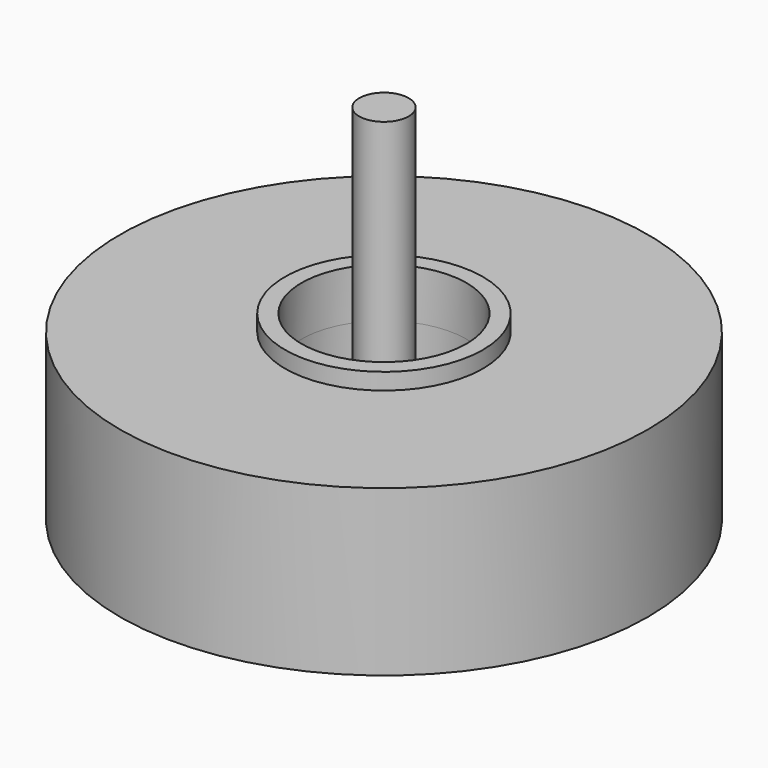
from build123d import *

# Parameters (mm, degrees)
CYLINDER002_R     = 5
CYLINDER002_DEPTH = 12
CYLINDER001_R     = 10
CYLINDER001_DEPTH = 6
CYLINDER_R        = 16
CYLINDER_DEPTH    = 10
CYLINDER005_R     = 1.5
CYLINDER005_DEPTH = 20
CYLINDER004_R     = 5
CYLINDER004_DEPTH = 13
CYLINDER003_R     = 6
CYLINDER003_DEPTH = 3


with BuildPart() as cylinder002:
    # Cylinder002 → Cylinder002 (new body)
    with BuildSketch(Plane.XY):
        Circle(CYLINDER002_R)
    extrude(amount=CYLINDER002_DEPTH)


with BuildPart() as cylinder001:
    # Cylinder001 → Cylinder001 (new body)
    with BuildSketch(Plane.XY):
        Circle(CYLINDER001_R)
    extrude(amount=CYLINDER001_DEPTH)


with BuildPart() as cut001:
    # Cylinder → Cylinder (new body)
    with BuildSketch(Plane.XY):
        Circle(CYLINDER_R)
    extrude(amount=CYLINDER_DEPTH)

    # Cut: cut Cylinder001
    add(cylinder001.part, mode=Mode.SUBTRACT)

    # Cut001: cut Cylinder002
    add(cylinder002.part, mode=Mode.SUBTRACT)


with BuildPart() as cylinder005:
    # Cylinder005 → Cylinder005 (new body)
    with BuildSketch(Plane.XY.offset(2)):
        Circle(CYLINDER005_R)
    extrude(amount=CYLINDER005_DEPTH)


with BuildPart() as cylinder004:
    # Cylinder004 → Cylinder004 (new body)
    with BuildSketch(Plane.XY):
        Circle(CYLINDER004_R)
    extrude(amount=CYLINDER004_DEPTH)


with BuildPart() as cut002:
    # Cylinder003 → Cylinder003 (new body)
    with BuildSketch(Plane.XY.offset(8)):
        Circle(CYLINDER003_R)
    extrude(amount=CYLINDER003_DEPTH)

    # Cut002: cut Cylinder004
    add(cylinder004.part, mode=Mode.SUBTRACT)


solid = Compound([cut001.part, cylinder005.part, cut002.part])
